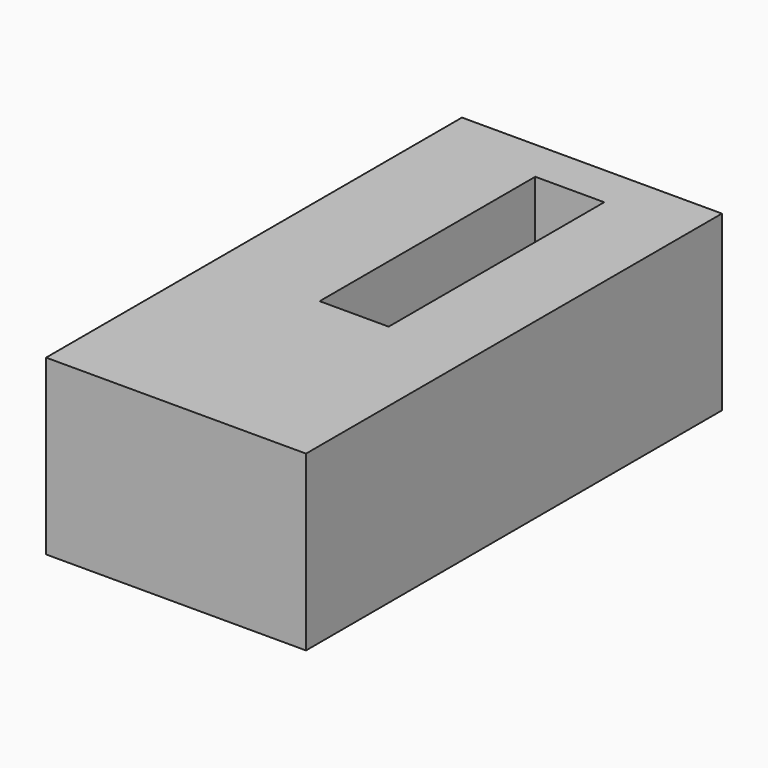
from build123d import *

# Parameters (mm, degrees)
SKETCH020_W     = 15
SKETCH020_H     = 30
PAD012_DEPTH    = 10
SKETCH023_W     = 3.980878
SKETCH023_H     = 15.550635
POCKET006_DEPTH = 10.001


with BuildPart() as pocket006:
    # Sketch020 → Pad012 (new body)
    with BuildSketch(Plane.XY.offset(9)):
        with Locations((-27.5, 32.769276)):
            Rectangle(SKETCH020_W, SKETCH020_H)
    extrude(amount=PAD012_DEPTH)

    # Sketch023 → Pocket006 (cut, through all)
    with BuildSketch(Plane.XY.offset(19)):
        with Locations((-26.822156, 27.993958)):
            Rectangle(SKETCH023_W, SKETCH023_H)
    extrude(amount=-POCKET006_DEPTH, mode=Mode.SUBTRACT)


with BuildPart() as part_mirroring:
    # Part__Mirroring: instance of Pocket006
    add(pocket006.part.mirror(Plane(origin=(0, 0, 0), x_dir=(1, 0, 0), z_dir=(0, 1, 0))))


solid = part_mirroring.part
